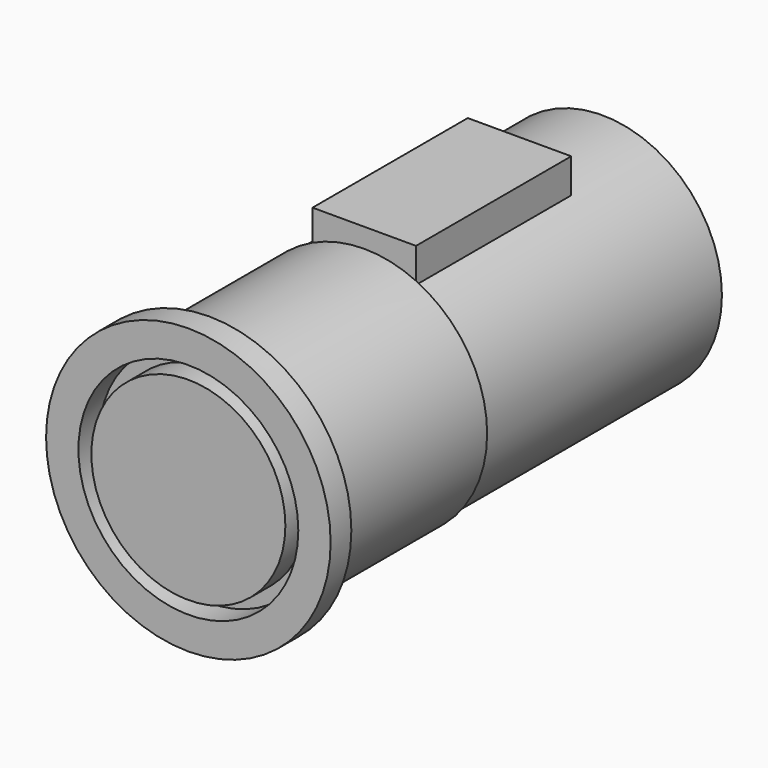
from build123d import *

# Parameters (mm, degrees)
BOX_W        = 8
BOX_H        = 15
BOX_DEPTH    = 3
SKETCH_R     = 11
PAD_DEPTH    = 2
SKETCH001_R  = 9.5
PAD001_DEPTH = 15
SKETCH002_R  = 9.25
PAD002_DEPTH = 23
SKETCH003_R  = 8.5
POCKET_DEPTH = 2
SKETCH004_R  = 7.5
PAD003_DEPTH = 2


with BuildPart() as cubo:
    # Box → Box (new body)
    with BuildSketch(Plane(origin=(-4, 15, 8), x_dir=(1, 0, 0), z_dir=(0, 0, 1))):
        with Locations((4, 7.5)):
            Rectangle(BOX_W, BOX_H)
    extrude(amount=BOX_DEPTH)


with BuildPart() as fusion:
    # Sketch → Pad (new body)
    with BuildSketch(Plane.XZ):
        Circle(SKETCH_R)
    extrude(amount=PAD_DEPTH)

    # Sketch001 (on Face2 of Pad) → Pad001 (join)
    with BuildSketch(Plane(origin=(0, 0, 0), x_dir=(1, 0, 0), z_dir=(0, 1, 0))):
        Circle(SKETCH001_R)
    extrude(amount=PAD001_DEPTH)

    # Sketch002 (on Face5 of Pad001) → Pad002 (join)
    with BuildSketch(Plane(origin=(0, 15, 0), x_dir=(1, 0, 0), z_dir=(0, 1, 0))):
        Circle(SKETCH002_R)
    extrude(amount=PAD002_DEPTH)

    # Sketch003 (on Face3 of Pad002) → Pocket (cut)
    with BuildSketch(Plane.XZ.offset(2)):
        Circle(SKETCH003_R)
    extrude(amount=-POCKET_DEPTH, mode=Mode.SUBTRACT)

    # Sketch004 (on Face7 of Pocket) → Pad003 (join)
    with BuildSketch(Plane.XZ):
        Circle(SKETCH004_R)
    extrude(amount=PAD003_DEPTH)

    # Fusion: union Cubo
    add(cubo.part)


solid = fusion.part
